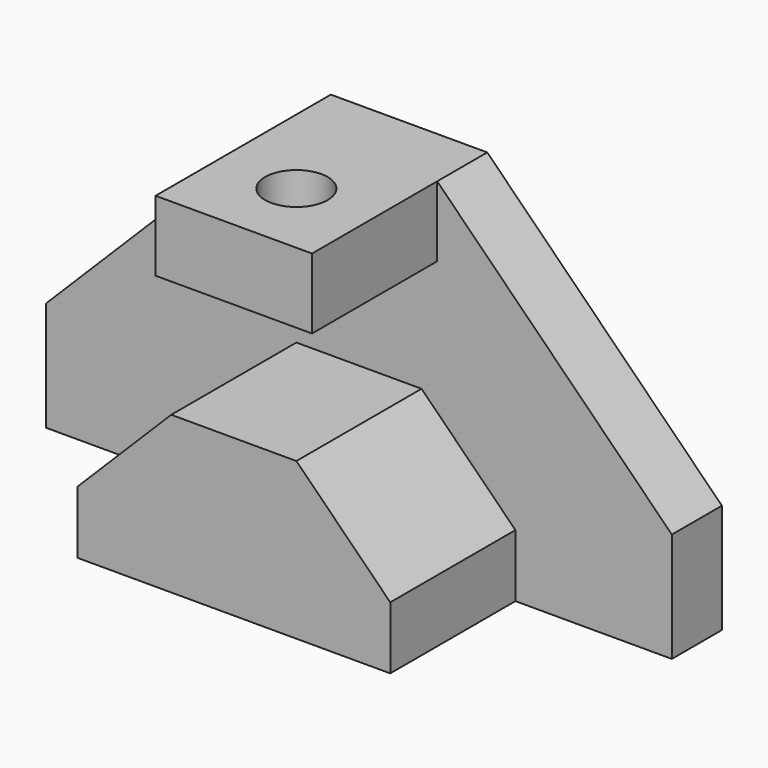
from build123d import *

# Parameters (mm, degrees)
F1_DEPTH = 12.7
F3_DEPTH = 31.75
F4_W     = 31.75
F4_H     = 14.2875
F5_DEPTH = 31.75
F7_DEPTH = 25.4


with BuildPart() as f1:
    # F0 (on Front) → F1 (new body)
    with BuildSketch(Plane.XZ):
        Polygon((-57.3339015245, -14.512266928), (-57.3339015245, -36.737266928), (69.6660984755, -36.737266928), (69.6660984755, -14.512266928), (22.0410984755, 33.112733072), (-9.7089015245, 33.112733072), align=None)
    extrude(amount=F1_DEPTH)

    # F2 (on face) → F3 (join)
    with BuildSketch(Plane.XZ.offset(12.7)):
        Polygon((-25.5839015245, -36.737266928), (37.9160984755, -36.737266928), (37.9160984755, -24.037266928), (18.8660984755, -24.037266928), (18.8660984755, -4.987266928), (-6.5339015245, -4.987266928), (-6.5339015245, -24.037266928), (-25.5839015245, -24.037266928), align=None)
        Polygon((18.8660984755, -24.037266928), (37.9160984755, -24.037266928), (18.8660984755, -4.987266928), align=None)
        Polygon((-6.5339015245, -4.987266928), (-25.5839015245, -24.037266928), (-6.5339015245, -24.037266928), align=None)
    extrude(amount=F3_DEPTH)

    # F4 (on face) → F5 (join)
    with BuildSketch(Plane.XZ.offset(12.7)):
        with Locations((6.1660984755, 25.968983072)):
            Rectangle(F4_W, F4_H)
    extrude(amount=F5_DEPTH)

    # F6 (on face) → F7 (cut)
    with BuildSketch(Plane.XY.offset(33.112733072)):
        with BuildLine():
            ThreePointArc((6.1660984755, -34.925), (10.656226536, -33.0651280605), (12.5160984755, -28.575))
            ThreePointArc((12.5160984755, -28.575), (1.6759704149, -24.0848719395), (6.1660984755, -34.925))
        make_face()
    extrude(amount=-F7_DEPTH, mode=Mode.SUBTRACT)


solid = f1.part
